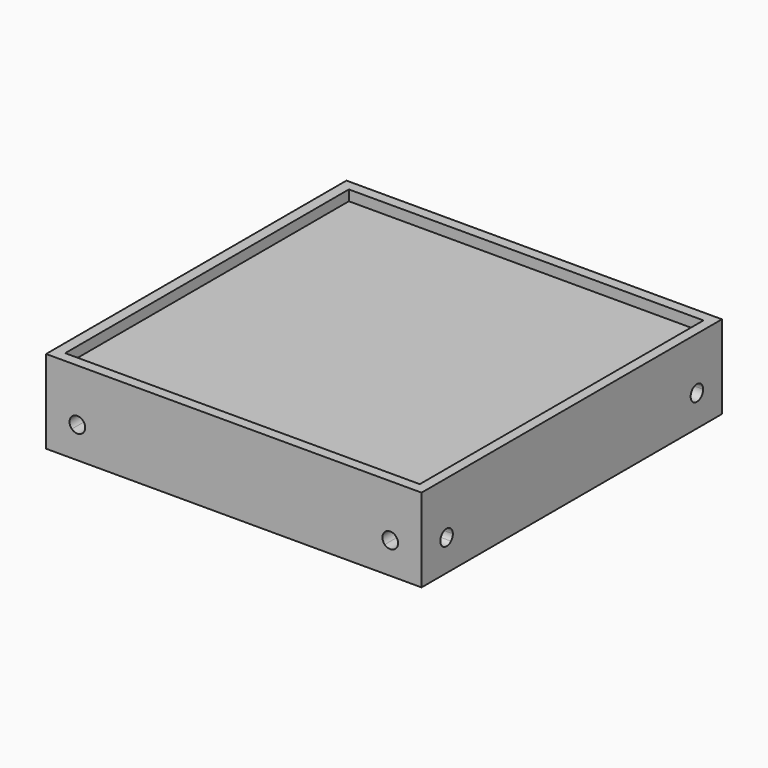
from build123d import *

# Parameters (mm, degrees)
F0_W      = 914.4
F0_H      = 914.4
F1_DEPTH  = 177.8
F2_W      = 609.6
F2_H      = 609.6
F3_DEPTH  = 152.4
F6_DEPTH  = 50.8
F8_DEPTH  = 50.8
F9_W      = 914.4
F9_H      = 914.4
F9_W_2    = 863.6
F9_H_2    = 863.6
F10_DEPTH = 25.4


with BuildPart() as f1:
    # F0 (on Top) → F1 (new body)
    with BuildSketch(Plane.XY):
        with Locations((-0.90002447, 0.1499950886)):
            Rectangle(F0_W, F0_H)
    extrude(amount=F1_DEPTH)

    # F2 (on face) → F3 (cut)
    with BuildSketch(Plane(origin=(0, 0, 0), x_dir=(1, 0, 0), z_dir=(0, 0, -1))):
        with Locations((-0.90002447, -0.1499950886)):
            Rectangle(F2_W, F2_H)
    extrude(amount=-F3_DEPTH, mode=Mode.SUBTRACT)

    # F5 (on face) → F6 (cut)
    with BuildSketch(Plane.XZ.offset(457.0500049114)):
        with BuildLine():
            Line((380.09997553, 76.2), (393.5703597116, 62.7296158184))
            ThreePointArc((393.5703597116, 62.7296158184), (397.6998806243, 68.9098806134), (399.14997553, 76.2))
            ThreePointArc((399.14997553, 76.2), (397.6998806243, 83.4901193866), (393.5703597116, 89.6703841816))
            Line((393.5703597116, 89.6703841816), (380.09997553, 76.2))
        make_face()
        with BuildLine():
            Line((380.09997553, 76.2), (393.5703597116, 89.6703841816))
            ThreePointArc((393.5703597116, 89.6703841816), (380.09997553, 95.25), (366.6295913484, 89.6703841816))
            Line((366.6295913484, 89.6703841816), (380.09997553, 76.2))
        make_face()
        with BuildLine():
            ThreePointArc((366.6295913484, 89.6703841816), (361.04997553, 76.2), (366.6295913484, 62.7296158184))
            Line((366.6295913484, 62.7296158184), (380.09997553, 76.2))
            Line((380.09997553, 76.2), (366.6295913484, 89.6703841816))
        make_face()
        with BuildLine():
            ThreePointArc((366.6295913484, 62.7296158184), (380.09997553, 57.15), (393.5703597116, 62.7296158184))
            Line((393.5703597116, 62.7296158184), (380.09997553, 76.2))
            Line((380.09997553, 76.2), (366.6295913484, 62.7296158184))
        make_face()
        with BuildLine():
            Line((-381.90002447, 76.2), (-368.4296402884, 62.7296158184))
            ThreePointArc((-368.4296402884, 62.7296158184), (-364.3001193757, 68.9098806134), (-362.85002447, 76.2))
            ThreePointArc((-362.85002447, 76.2), (-364.3001193757, 83.4901193866), (-368.4296402884, 89.6703841816))
            Line((-368.4296402884, 89.6703841816), (-381.90002447, 76.2))
        make_face()
        with BuildLine():
            Line((-381.90002447, 76.2), (-368.4296402884, 89.6703841816))
            ThreePointArc((-368.4296402884, 89.6703841816), (-381.90002447, 95.25), (-395.3704086516, 89.6703841816))
            Line((-395.3704086516, 89.6703841816), (-381.90002447, 76.2))
        make_face()
        with BuildLine():
            ThreePointArc((-395.3704086516, 89.6703841816), (-400.95002447, 76.2), (-395.3704086516, 62.7296158184))
            Line((-395.3704086516, 62.7296158184), (-381.90002447, 76.2))
            Line((-381.90002447, 76.2), (-395.3704086516, 89.6703841816))
        make_face()
        with BuildLine():
            ThreePointArc((-395.3704086516, 62.7296158184), (-381.90002447, 57.15), (-368.4296402884, 62.7296158184))
            Line((-368.4296402884, 62.7296158184), (-381.90002447, 76.2))
            Line((-381.90002447, 76.2), (-395.3704086516, 62.7296158184))
        make_face()
    extrude(amount=-F6_DEPTH, mode=Mode.SUBTRACT)

    # F7 (on face) → F8 (cut)
    with BuildSketch(Plane.YZ.offset(456.29997553)):
        with BuildLine():
            Line((394.6203792702, 89.6703841816), (367.679610907, 62.7296158184))
            ThreePointArc((367.679610907, 62.7296158184), (388.4401144751, 58.6000949057), (400.1999950886, 76.2))
            ThreePointArc((400.1999950886, 76.2), (398.7499001829, 83.4901193866), (394.6203792702, 89.6703841816))
        make_face()
        with BuildLine():
            ThreePointArc((394.6203792702, 89.6703841816), (367.679610907, 89.6703841816), (367.679610907, 62.7296158184))
            Line((367.679610907, 62.7296158184), (394.6203792702, 89.6703841816))
        make_face()
        with BuildLine():
            Line((-394.320389093, 89.6703841816), (-367.3796207298, 62.7296158184))
            ThreePointArc((-367.3796207298, 62.7296158184), (-363.2500998171, 68.9098806134), (-361.8000049114, 76.2))
            ThreePointArc((-361.8000049114, 76.2), (-373.5598855249, 93.7999050943), (-394.320389093, 89.6703841816))
        make_face()
        with BuildLine():
            ThreePointArc((-394.320389093, 89.6703841816), (-394.320389093, 62.7296158184), (-367.3796207298, 62.7296158184))
            Line((-367.3796207298, 62.7296158184), (-394.320389093, 89.6703841816))
        make_face()
    extrude(amount=-F8_DEPTH, mode=Mode.SUBTRACT)

    # F9 (on face) → F10 (join)
    with BuildSketch(Plane.XY.offset(177.8)):
        with Locations((-0.90002447, 0.1499950886)):
            Rectangle(F9_W, F9_H)
        Rectangle(F9_W_2, F9_H_2, mode=Mode.SUBTRACT)
    extrude(amount=F10_DEPTH)


solid = f1.part
